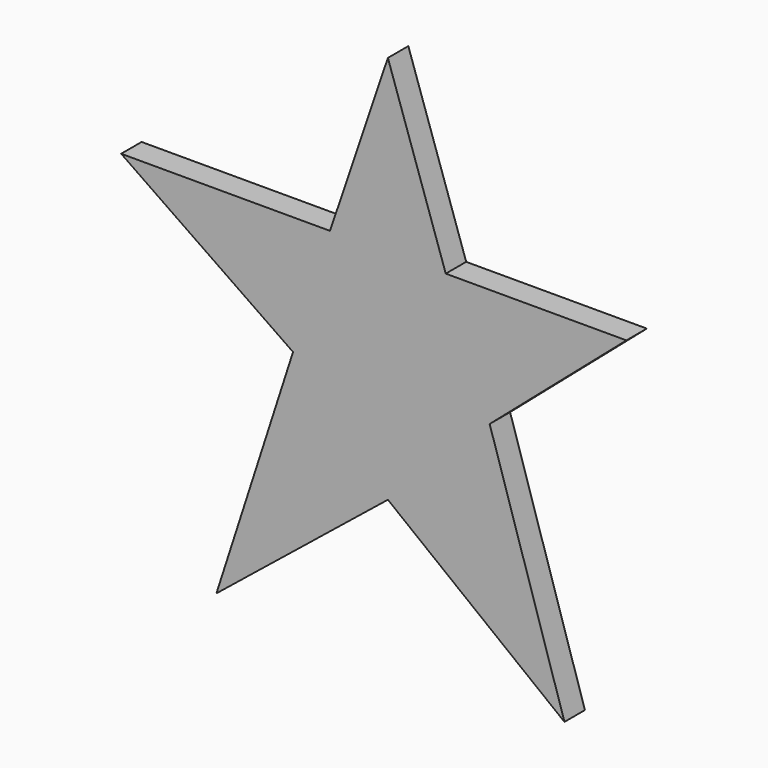
from build123d import *

# Parameters (mm, degrees)
F2_DEPTH = 1.524


with BuildPart() as f2:
    # F1 (on face) → F2 (new body)
    with BuildSketch(Plane.XZ):
        Polygon((3.452803, 7.043747), (0, 17.254066), (-3.452803, 7.043747), (-15.913724, 7.043747), (-5.658479, -0.034705), (-10.230287, -14.200249), (0, -5.954943), (10.535668, -14.200249), (6.072822, 0), (14.231136, 7.043747), align=None)
    extrude(amount=F2_DEPTH)


solid = f2.part
